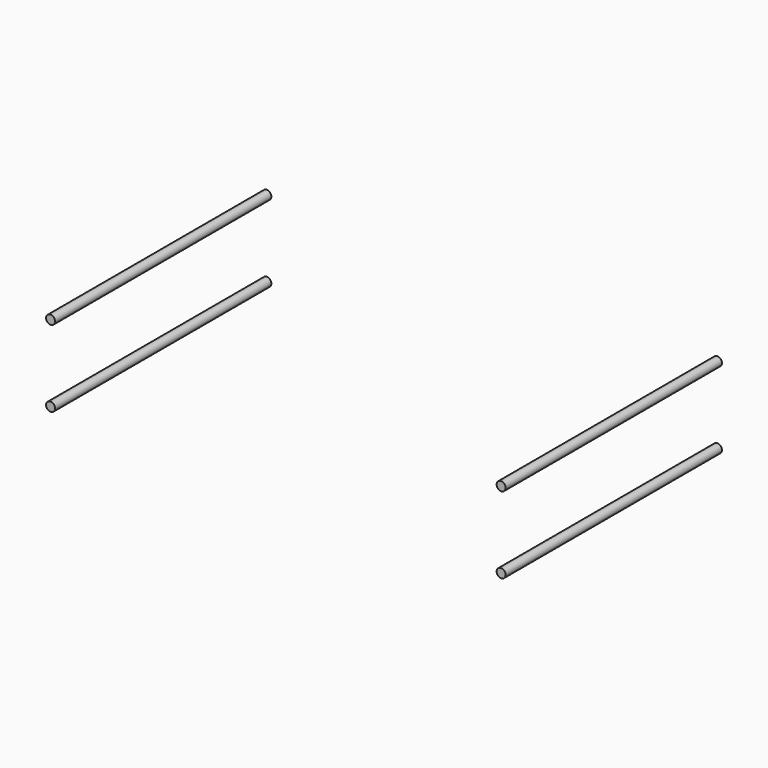
from build123d import *

# Parameters (mm, degrees)
F0_R     = 2.54
F1_DEPTH = 152.4


with BuildPart() as f1:
    # F0 (on Front) → F1 (new body)
    with BuildSketch(Plane.XZ):
        with Locations((-127, 21.59)):
            Circle(F0_R)
        with Locations((127, 21.59)):
            Circle(F0_R)
        with Locations((127, -21.59)):
            Circle(F0_R)
        with Locations((-127, -21.59)):
            Circle(F0_R)
    extrude(amount=F1_DEPTH)


solid = f1.part
